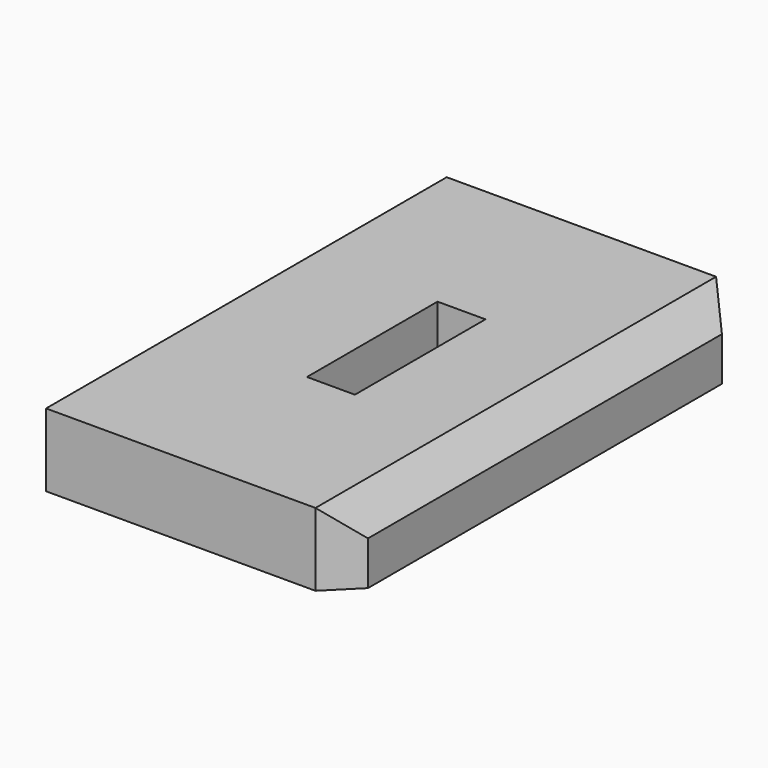
from build123d import *

# Parameters (mm, degrees)
F0_W     = 51.974228
F0_H     = 87.172508
F0_W_2   = 8.343116
F0_H_2   = 28.410458
F1_DEPTH = 12.7
F2_SIZE  = 5.08


with BuildPart() as f1:
    # F0 (on Top) → F1 (new body)
    with BuildSketch(Plane.XY):
        with Locations((-14.156991, 0)):
            Rectangle(F0_W, F0_H)
        with Locations((-14.06271, 0)):
            Rectangle(F0_W_2, F0_H_2, mode=Mode.SUBTRACT)
    extrude(amount=F1_DEPTH)

    # F2
    f2_edges = [f1.edges().sort_by_distance(p)[0] for p in [
        (11.830123, 43.586254, 6.35),
        (11.830123, 0, 12.7),
        (11.830123, -43.586254, 6.35),
    ]]
    chamfer(f2_edges, length=F2_SIZE)


solid = f1.part
